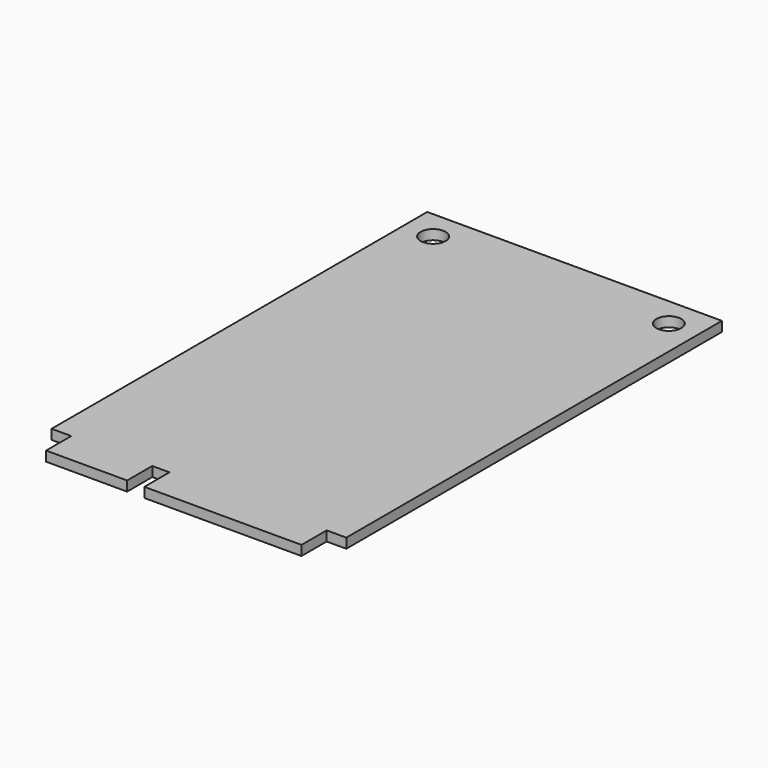
from build123d import *

# Parameters (mm, degrees)
F0_R     = 1.27
F0_W     = 8.25
F0_H     = 3.2
F0_W_2   = 16
F1_DEPTH = 1


with BuildPart() as f1:
    # F0 (on Top) → F1 (new body)
    with BuildSketch(Plane.XY):
        Polygon((15, 23.9), (-15, 23.9), (-15, -23.9), (-13, -23.9), (-4.75, -23.9), (-3, -23.9), (13, -23.9), (15, -23.9), align=None)
        with Locations((-12, 20.9)):
            Circle(F0_R, mode=Mode.SUBTRACT)
        with Locations((12, 20.9)):
            Circle(F0_R, mode=Mode.SUBTRACT)
        with Locations((-8.875, -25.5)):
            Rectangle(F0_W, F0_H)
        with Locations((5, -25.5)):
            Rectangle(F0_W_2, F0_H)
    extrude(amount=F1_DEPTH)


solid = f1.part
